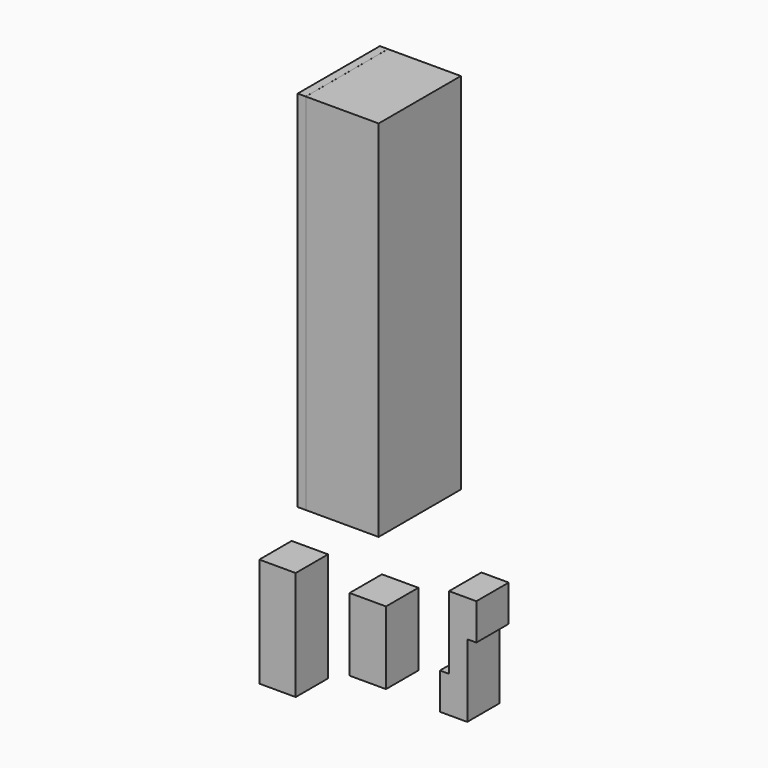
from build123d import *

# Parameters (mm, degrees)
F0_W     = 9
F0_H     = 27
F1_DEPTH = 10
F2_W     = 9
F2_H     = 18
F3_DEPTH = 10
F5_DEPTH = 10
F6_W     = 18.0086
F6_H     = 89.9922
F7_DEPTH = 25.4
F8_DEPTH = 25.4


with BuildPart() as f1:
    # F0 (on Front) → F1 (new body)
    with BuildSketch(Plane.XZ):
        with Locations((19.834839, -23.924032)):
            Rectangle(F0_W, F0_H)
    extrude(amount=-F1_DEPTH)


with BuildPart() as f3:
    # F2 (on Front) → F3 (new body)
    with BuildSketch(Plane.XZ):
        with Locations((42.162936, -19.43305)):
            Rectangle(F2_W, F2_H)
    extrude(amount=-F3_DEPTH)


with BuildPart() as f5:
    # F4 (on Front) → F5 (new body)
    with BuildSketch(Plane.XZ):
        Polygon((59.997173, -20.035636), (59.997173, -29.035636), (66.747173, -29.035636), (66.747173, -11.035636), (68.997173, -11.035636), (68.997173, -2.035636), (62.247173, -2.035636), (62.247173, -20.035636), align=None)
    extrude(amount=-F5_DEPTH)


with BuildPart() as f7:
    # F6 (on face) → F7 (new body)
    with BuildSketch(Plane.XZ):
        with Locations((35.837151, 49.090376)):
            Rectangle(F6_W, F6_H)
    extrude(amount=-F7_DEPTH)


with BuildPart() as f8:
    # F6 (on face) → F8 (new body)
    with BuildSketch(Plane.XZ):
        Polygon((26.832851, 4.094276), (26.832851, 94.086476), (26.832851, 94.094276), (24.832851, 94.094276), (24.832851, 4.094276), align=None)
    extrude(amount=-F8_DEPTH)


solid = Compound([f1.part, f3.part, f5.part, f7.part, f8.part])
